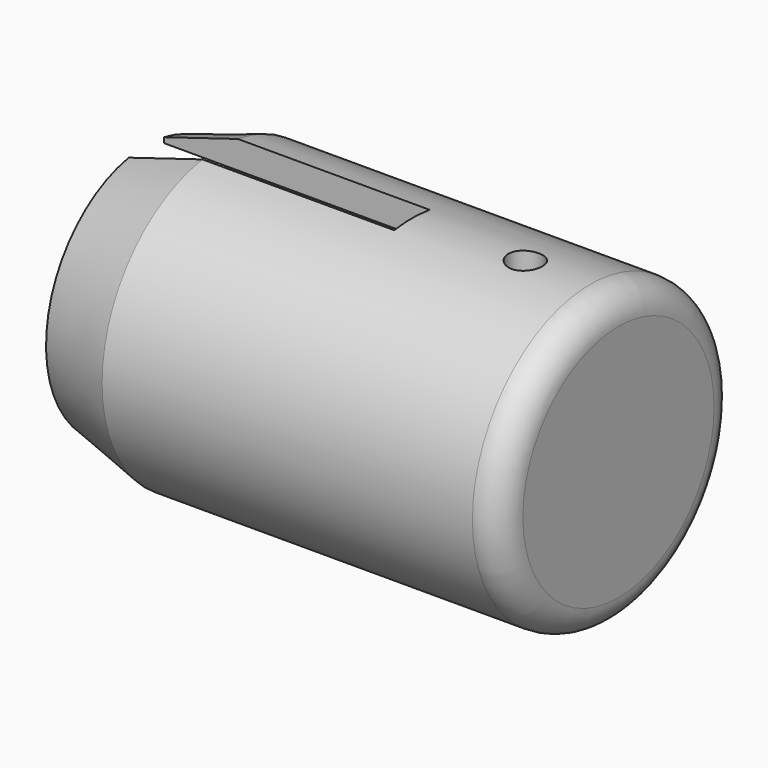
from build123d import *

# Parameters (mm, degrees)
SKETCH009_R             = 10
SKETCH009_R_2           = 8.15
PAD005_DEPTH            = 30
SKETCH010_R             = 10
PAD006_DEPTH            = 2
SKETCH011_W             = 3
SKETCH011_H             = 13.298698
POCKET004_DEPTH         = 18
SKETCH013_R             = 8.553823
PAD007_DEPTH            = 11
SKETCH012_R             = 1.15
POCKET005_DEPTH         = 21
FILLET002_R             = 1.9
CHAMFER003_SIZE2        = 1.5
CHAMFER003_SIZE         = 5
BODY002_PLACEMENT_ANGLE = 180


with BuildPart() as part:
    # Sketch009 → Pad005 (new body)
    with BuildSketch(Plane.YZ):
        Circle(SKETCH009_R)
        Circle(SKETCH009_R_2, mode=Mode.SUBTRACT)
    extrude(amount=PAD005_DEPTH)

    # Sketch010 (on Face3 of Pad005) → Pad006 (join)
    with BuildSketch(Plane(origin=(0, 0, 0), x_dir=(0, 1, 0), z_dir=(-1, 0, 0))):
        Circle(SKETCH010_R)
    extrude(amount=PAD006_DEPTH)

    # Sketch011 (on Face3 of Pad006) → Pocket004 (cut)
    with BuildSketch(Plane.YZ.offset(30)):
        with Locations((0, 6.649349)):
            Rectangle(SKETCH011_W, SKETCH011_H)
    extrude(amount=-POCKET004_DEPTH, mode=Mode.SUBTRACT)

    # Sketch013 (on Face9 of Pocket004) → Pad007 (join)
    with BuildSketch(Plane.YZ):
        Circle(SKETCH013_R)
    extrude(amount=PAD007_DEPTH)

    # Sketch012 (on DatumPlane) → Pocket005 (cut)
    with BuildSketch(Plane.XY):
        with Locations((4.314017, 0)):
            Circle(SKETCH012_R)
    extrude(amount=POCKET005_DEPTH, mode=Mode.SUBTRACT)

    # Fillet002
    fillet002_edges = [part.edges().sort_by_distance(p)[0] for p in [
        (-2, -10, 0),
    ]]
    fillet(fillet002_edges, radius=FILLET002_R)

    # Chamfer003
    chamfer003_edges = [part.edges().sort_by_distance(p)[0] for p in [
        (30, -6.519202, -7.582875),
        (30, 7.582875, 6.519202),
    ]]
    chamfer003_side = part.faces().sort_by_distance((15, -10, 0))[0]
    chamfer(chamfer003_edges, length=CHAMFER003_SIZE, length2=CHAMFER003_SIZE2, reference=chamfer003_side)


with BuildPart() as part_1:
    # Body002 placement: moved
    add(part.part.moved(Location((282, 0, 14))).rotate(Axis((282, 0, 14), (0, 0, -1)), BODY002_PLACEMENT_ANGLE))


solid = part_1.part
